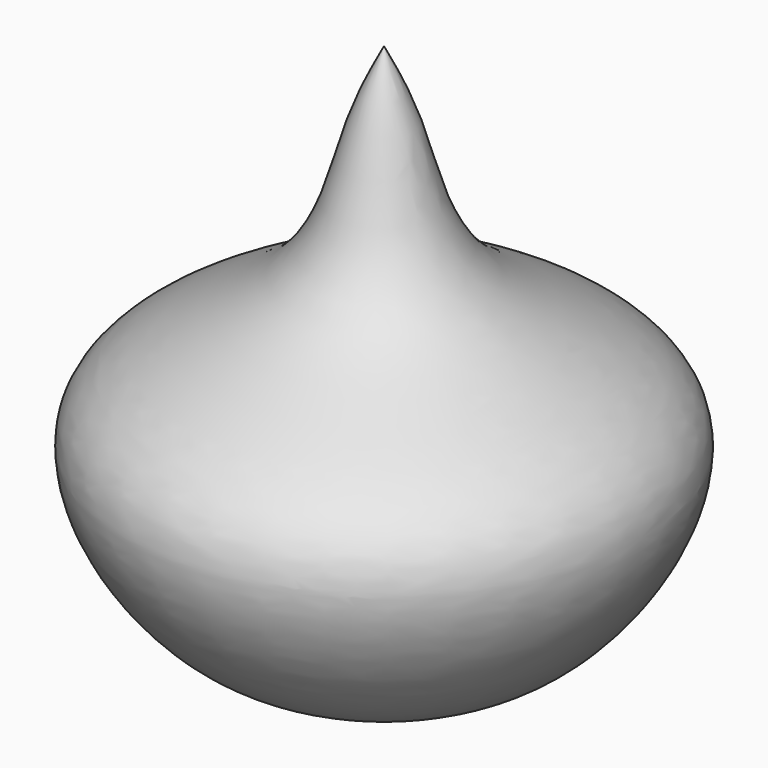
from build123d import *


with BuildPart() as f1:
    # F0 (on Front) → F1 (revolve)
    with BuildSketch(Plane.XZ):
        with BuildLine():
            Line((0, 69.6873292327), (0, -63.6927187443))
            add(Edge.make_bspline(
                [(0, -63.6927187443), (14.1403977605, -62.8176771781), (43.2944227527, -61.0135565217), (77.9287827552, -1.531173133), (14.9599990371, 15.5972013111), (9.0491961151, 51.9683407892), (2.7221044317, 64.3572494826), (0, 69.6873292327)],
                knots=[0, 0, 0, 0, 0.2125338501, 0.438192566, 0.6672813268, 0.856854457, 1, 1, 1, 1], degree=3))
        make_face()
    revolve(axis=Axis((0, 0, 2.9973052442), (0, 0, -1)))


solid = f1.part
